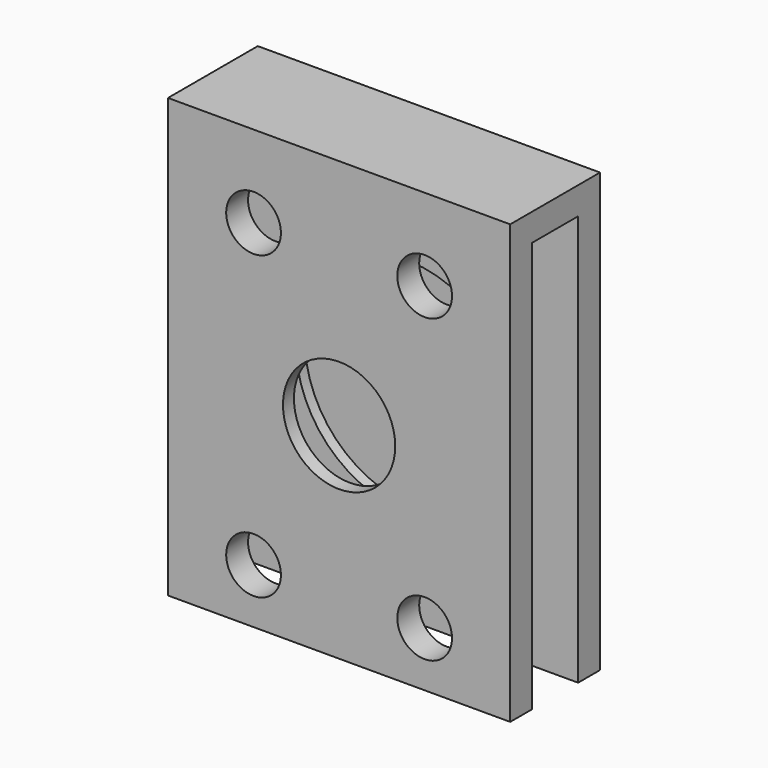
from build123d import *

# Parameters (mm, degrees)
F0_W          = 25
F0_H          = 30
F0_R          = 2.1
F1_DEPTH      = 2
F2_W          = 25
F2_H          = 2
F2_H_2        = 4.2
F3_DEPTH      = 2
F4_DEPTH      = 30
F5_R          = 2.1
F6_DEPTH      = 8.2
F8_R          = 8.1
F8_R_2        = 2.1
F9_DEPTH      = 2.5
F9_DEPTH_BACK = 3.5
F10_R         = 4.1
F11_DEPTH     = 1
F12_R         = 2
F13_DEPTH     = 8.2


with BuildPart() as f1:
    # F0 (on Front) → F1 (new body)
    with BuildSketch(Plane.XZ):
        with Locations((-27.446082, 26.626395)):
            Rectangle(F0_W, F0_H)
        with Locations((-27.446082, 26.626395)):
            Circle(F0_R, mode=Mode.SUBTRACT)
    extrude(amount=-F1_DEPTH)

    # F2 (on face) → F3 (join)
    with BuildSketch(Plane.XY.offset(41.626395)):
        with Locations((-27.446082, 7.2)):
            Rectangle(F2_W, F2_H)
        with Locations((-27.446082, 4.1)):
            Rectangle(F2_W, F2_H_2)
        with Locations((-27.446082, 1)):
            Rectangle(F2_W, F2_H)
    extrude(amount=F3_DEPTH)

    # F2 (on face) → F4 (join)
    with BuildSketch(Plane.XY.offset(41.626395)):
        with Locations((-27.446082, 7.2)):
            Rectangle(F2_W, F2_H)
    extrude(amount=-F4_DEPTH)

    # F5 (on face) → F6 (cut, through all)
    with BuildSketch(Plane.XZ):
        with Locations((-27.446082, 26.626395)):
            Circle(F5_R)
    extrude(amount=-F6_DEPTH, mode=Mode.SUBTRACT)

    # F8 (on offset) → F9 (cut, two sides)
    with BuildSketch(Plane.XZ.offset(-3.5)) as f9_sk:
        with Locations((-27.446082, 26.626395)):
            Circle(F8_R)
        with Locations((-27.446082, 26.626395)):
            Circle(F8_R_2, mode=Mode.SUBTRACT)
    extrude(amount=F9_DEPTH, mode=Mode.SUBTRACT)
    extrude(f9_sk.sketch, amount=-F9_DEPTH_BACK, mode=Mode.SUBTRACT)

    # F10 (on face) → F11 (cut, through all)
    with BuildSketch(Plane.XZ):
        with Locations((-27.446082, 26.626395)):
            Circle(F10_R)
    extrude(amount=-F11_DEPTH, mode=Mode.SUBTRACT)

    # F12 (on face) → F13 (cut, through all)
    with BuildSketch(Plane(origin=(0, 8.2, 0), x_dir=(-1, 0, 0), z_dir=(0, 1, 0))):
        with Locations((21.196082, 37.626395)):
            Circle(F12_R)
        with Locations((33.696082, 37.626395)):
            Circle(F12_R)
        with Locations((21.196082, 15.626395)):
            Circle(F12_R)
        with Locations((33.696082, 15.626395)):
            Circle(F12_R)
    extrude(amount=-F13_DEPTH, mode=Mode.SUBTRACT)


solid = f1.part
